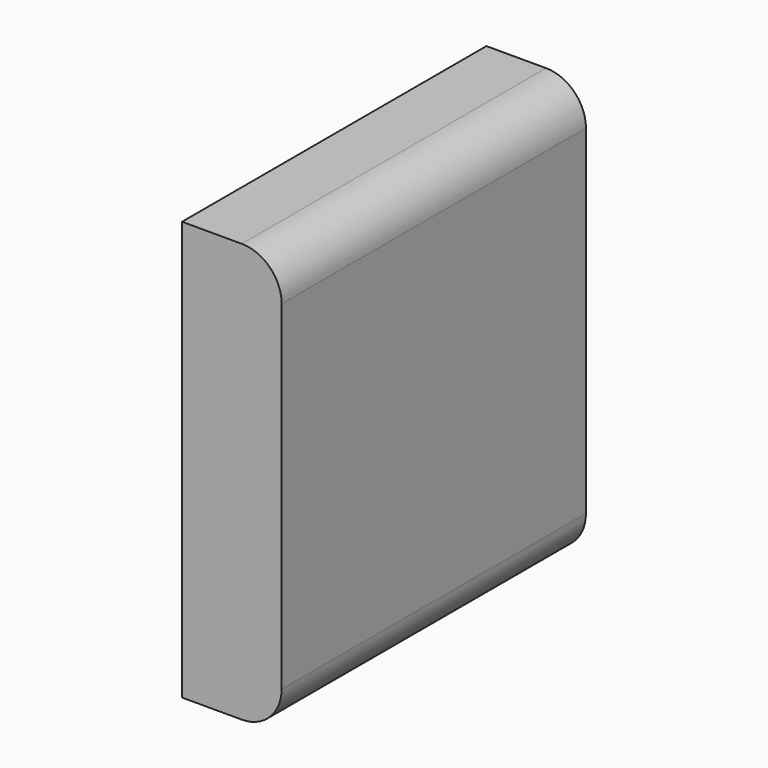
from build123d import *

# Parameters (mm, degrees)
F1_DEPTH = 9.551


with BuildPart() as f1:
    # F0 (on Front) → F1 (new body)
    with BuildSketch(Plane.XZ):
        with BuildLine():
            Line((0, -5), (0, 0))
            Line((0, 0), (0, 5.517102))
            Line((0, 5.517102), (-1.5, 5.517102))
            ThreePointArc((-1.5, 5.517102), (-2.207107, 5.224208), (-2.5, 4.517102))
            Line((-2.5, 4.517102), (-2.5, -4))
            ThreePointArc((-2.5, -4), (-2.207107, -4.707107), (-1.5, -5))
            Line((-1.5, -5), (0, -5))
        make_face()
    extrude(amount=F1_DEPTH)


with BuildPart() as f2_1:
    # F2: instance of F1
    add(f1.part.mirror(Plane.YZ))


solid = f2_1.part
